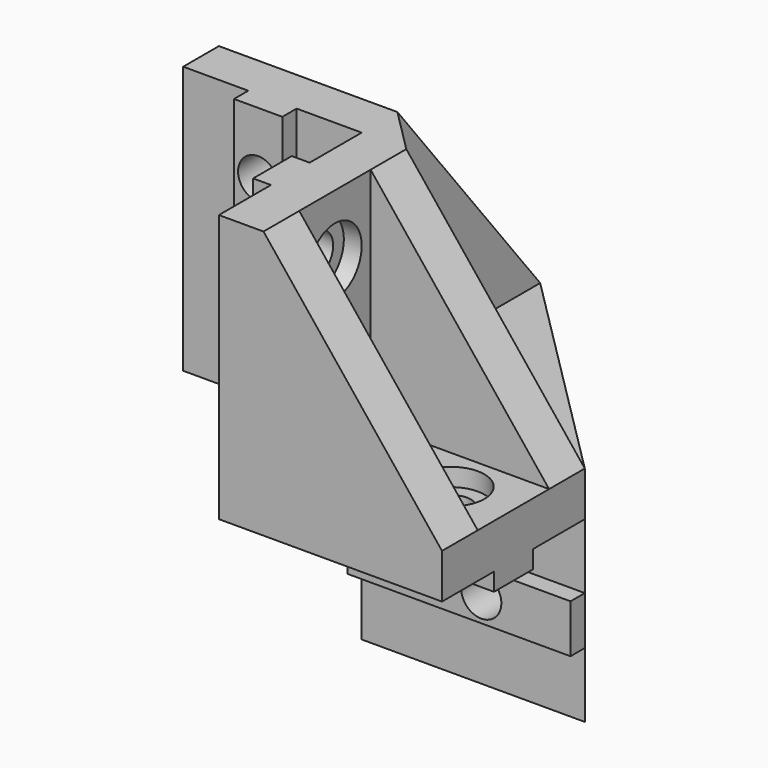
from build123d import *

# Parameters (mm, degrees)
F1_DEPTH  = 5
F3_DEPTH  = 25
F4_DEPTH  = 25
F6_DEPTH  = 45.001
F7_W      = 27
F7_H      = 5.42
F7_W_2    = 5.42
F7_H_2    = 27
F8_DEPTH  = 2
F10_DEPTH = 45.001
F12_DEPTH = 30
F13_R     = 2.25
F14_DEPTH = 7.001
F15_R     = 2.25
F16_DEPTH = 25.001
F17_R     = 2.25
F18_DEPTH = 25.001
F20_DEPTH = 20
F22_DEPTH = 2
F23_W     = 27
F23_H     = 5.42
F24_DEPTH = 2
F25_R     = 2.25
F26_DEPTH = 25.001
F27_R     = 2.25
F28_DEPTH = 25.001
F29_R     = 3.75
F30_DEPTH = 2
F31_R     = 3.75
F32_DEPTH = 2
F33_R     = 3.75
F34_DEPTH = 2
F35_R     = 3.75
F36_DEPTH = 2
F37_R     = 3.75
F38_DEPTH = 2
F39_R     = 3.75
F40_DEPTH = 2
F41_W     = 2
F41_H     = 2
F42_DEPTH = 12.711
F43_W     = 2
F43_H     = 2
F44_DEPTH = 12.711
F45_W     = 2
F45_H     = 2
F46_DEPTH = 12.711


with BuildPart() as f1:
    # F0 (on Top) → F1 (new body)
    with BuildSketch(Plane.XY):
        Polygon((0, 20), (20, 20), (20, 0), (45, 0), (45, 20), (20, 45), (0, 45), align=None)
    extrude(amount=F1_DEPTH)

    # F2 (on face) → F3 (join)
    with BuildSketch(Plane.XY.offset(5)):
        Polygon((0, 25), (0, 20), (20, 20), (20, 0), (25, 0), (45, 0), (45, 5), (25, 5), (25, 15), (45, 15), (45, 20), (25, 20), (20, 25), (20, 45), (15, 45), (15, 25), (5, 25), (5, 45), (0, 45), align=None)
    extrude(amount=F3_DEPTH)

    # F2 (on face) → F4 (join)
    with BuildSketch(Plane.XY.offset(5)):
        Polygon((0, 25), (0, 20), (20, 20), (20, 0), (25, 0), (45, 0), (45, 5), (25, 5), (25, 15), (45, 15), (45, 20), (25, 20), (20, 25), (20, 45), (15, 45), (15, 25), (5, 25), (5, 45), (0, 45), align=None)
    extrude(amount=F4_DEPTH)

    # F5 (on face) → F6 (cut, through all)
    with BuildSketch(Plane(origin=(0, 0, 0), x_dir=(0, -1, 0), z_dir=(-1, 0, 0))):
        Polygon((-45, 30), (-45, 5), (-25, 30), align=None)
    extrude(amount=-F6_DEPTH, mode=Mode.SUBTRACT)

    # F7 (on face) → F8 (join)
    with BuildSketch(Plane(origin=(0, 0, 0), x_dir=(1, 0, 0), z_dir=(0, 0, -1))):
        with Locations((31.5, -10)):
            Rectangle(F7_W, F7_H)
        with Locations((10, -31.5)):
            Rectangle(F7_W_2, F7_H_2)
    extrude(amount=F8_DEPTH)

    # F9 (on face) → F10 (cut, through all)
    with BuildSketch(Plane.XZ):
        Polygon((45, 30), (25, 30), (45, 5), align=None)
    extrude(amount=-F10_DEPTH, mode=Mode.SUBTRACT)

    # F11 (on face) → F12 (join)
    with BuildSketch(Plane.XY.offset(30)):
        Polygon((12.71, 20), (10, 20), (7.29, 20), (7.29, 18), (12.71, 18), align=None)
        Polygon((20, 7.29), (20, 10), (20, 12.71), (18, 12.71), (18, 7.29), align=None)
    extrude(amount=-F12_DEPTH)

    # F13 (on face) → F14 (cut, through all)
    with BuildSketch(Plane.XY.offset(5)):
        with Locations((10, 38)):
            Circle(F13_R)
        with Locations((38, 10)):
            Circle(F13_R)
    extrude(amount=-F14_DEPTH, mode=Mode.SUBTRACT)

    # F15 (on face) → F16 (cut, through all)
    with BuildSketch(Plane(origin=(0, 25, 0), x_dir=(-1, 0, 0), z_dir=(0, 1, 0))):
        with Locations((-10, 23)):
            Circle(F15_R)
    extrude(amount=-F16_DEPTH, mode=Mode.SUBTRACT)

    # F17 (on face) → F18 (cut, through all)
    with BuildSketch(Plane.YZ.offset(25)):
        with Locations((10, 23)):
            Circle(F17_R)
    extrude(amount=-F18_DEPTH, mode=Mode.SUBTRACT)

    # F19 (on face) → F20 (join)
    with BuildSketch(Plane(origin=(0, 0, 0), x_dir=(1, 0, 0), z_dir=(0, 0, -1))):
        Polygon((40, -25), (45, -20), (20, -20), (20, -45), (25, -40), (25, -25), align=None)
    extrude(amount=F20_DEPTH)

    # F21 (on face) → F22 (join)
    with BuildSketch(Plane.XZ.offset(-20)):
        Polygon((45, -12.71), (45, -10), (45, -7.29), (20, -7.29), (20, -12.71), align=None)
    extrude(amount=F22_DEPTH)

    # F23 (on face) → F24 (join)
    with BuildSketch(Plane(origin=(20, 0, 0), x_dir=(0, -1, 0), z_dir=(-1, 0, 0))):
        with Locations((-31.5, -10)):
            Rectangle(F23_W, F23_H)
    extrude(amount=F24_DEPTH)

    # F25 (on face) → F26 (cut, through all)
    with BuildSketch(Plane.YZ.offset(25)):
        with Locations((35, -10)):
            Circle(F25_R)
    extrude(amount=-F26_DEPTH, mode=Mode.SUBTRACT)

    # F27 (on face) → F28 (cut, through all)
    with BuildSketch(Plane(origin=(0, 25, 0), x_dir=(-1, 0, 0), z_dir=(0, 1, 0))):
        with Locations((-35, -10)):
            Circle(F27_R)
    extrude(amount=-F28_DEPTH, mode=Mode.SUBTRACT)

    # F29 (on face) → F30 (cut)
    with BuildSketch(Plane(origin=(0, 25, 0), x_dir=(-1, 0, 0), z_dir=(0, 1, 0))):
        with Locations((-35, -10)):
            Circle(F29_R)
    extrude(amount=-F30_DEPTH, mode=Mode.SUBTRACT)

    # F31 (on face) → F32 (cut)
    with BuildSketch(Plane.YZ.offset(25)):
        with Locations((35, -10)):
            Circle(F31_R)
    extrude(amount=-F32_DEPTH, mode=Mode.SUBTRACT)

    # F33 (on face) → F34 (cut)
    with BuildSketch(Plane(origin=(0, 25, 0), x_dir=(-1, 0, 0), z_dir=(0, 1, 0))):
        with Locations((-10, 23)):
            Circle(F33_R)
    extrude(amount=-F34_DEPTH, mode=Mode.SUBTRACT)

    # F35 (on face) → F36 (cut)
    with BuildSketch(Plane.YZ.offset(25)):
        with Locations((10, 23)):
            Circle(F35_R)
    extrude(amount=-F36_DEPTH, mode=Mode.SUBTRACT)

    # F37 (on face) → F38 (cut)
    with BuildSketch(Plane.XY.offset(5)):
        with Locations((38, 10)):
            Circle(F37_R)
    extrude(amount=-F38_DEPTH, mode=Mode.SUBTRACT)

    # F39 (on face) → F40 (cut)
    with BuildSketch(Plane.XY.offset(5)):
        with Locations((10, 38)):
            Circle(F39_R)
    extrude(amount=-F40_DEPTH, mode=Mode.SUBTRACT)

    # F41 (on face) → F42 (cut, through all)
    with BuildSketch(Plane.XY.offset(-7.29)):
        with Locations((19, 19)):
            Rectangle(F41_W, F41_H)
    extrude(amount=-F42_DEPTH, mode=Mode.SUBTRACT)

    # F43 (on face) → F44 (cut, through all)
    with BuildSketch(Plane.YZ.offset(12.71)):
        with Locations((19, -1)):
            Rectangle(F43_W, F43_H)
    extrude(amount=-F44_DEPTH, mode=Mode.SUBTRACT)

    # F45 (on face) → F46 (cut, through all)
    with BuildSketch(Plane(origin=(0, 12.71, 0), x_dir=(-1, 0, 0), z_dir=(0, 1, 0))):
        with Locations((-19, -1)):
            Rectangle(F45_W, F45_H)
    extrude(amount=-F46_DEPTH, mode=Mode.SUBTRACT)


solid = f1.part
